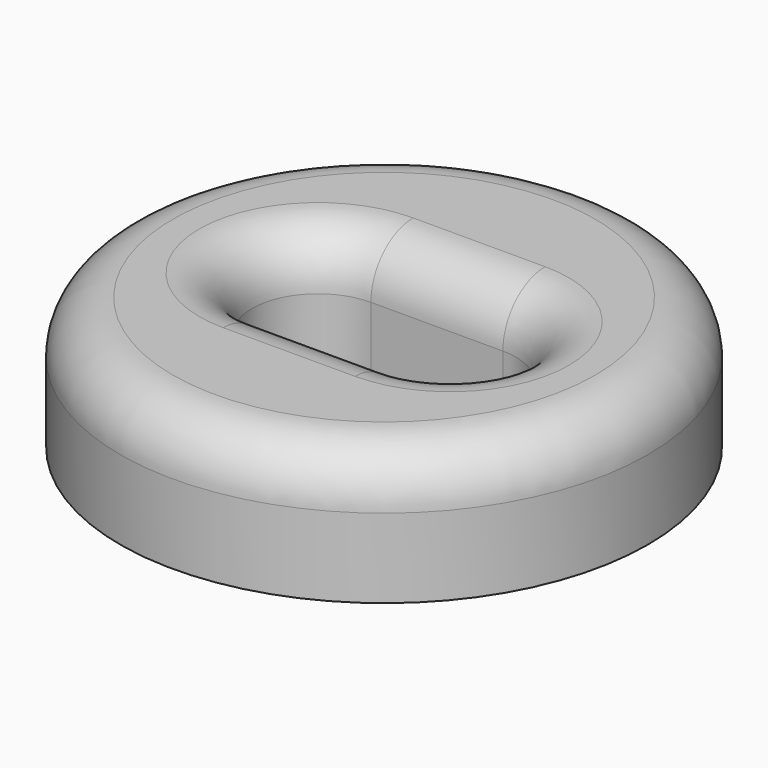
from build123d import *

# Parameters (mm, degrees)
SKETCH011_R     = 10
PAD005_DEPTH    = 5
FILLET_R        = 2
FILLET001_R     = 2
SKETCH012_R     = 0.75
POCKET006_DEPTH = 3.5


with BuildPart() as part:
    # Sketch011 (on Face1 of CopyPocket005) → Pad005 (new body)
    with BuildSketch(Plane.XY.offset(30)):
        with Locations((0.000374, 26)):
            Circle(SKETCH011_R)
        with BuildLine():
            ThreePointArc((-2.5, 28.5), (-5, 26), (-2.5, 23.5))
            Line((-2.5, 23.5), (2.5, 23.5))
            ThreePointArc((2.5, 23.5), (5, 26), (2.5, 28.5))
            Line((-2.5, 28.5), (2.5, 28.5))
        make_face(mode=Mode.SUBTRACT)
    extrude(amount=PAD005_DEPTH)

    # Fillet
    fillet_edges = [part.edges().sort_by_distance(p)[0] for p in [
        (-5, 26, 35),
    ]]
    fillet(fillet_edges, radius=FILLET_R)

    # Fillet001
    fillet001_edges = [part.edges().sort_by_distance(p)[0] for p in [
        (-9.999626, 26, 35),
    ]]
    fillet(fillet001_edges, radius=FILLET001_R)

    # Sketch012 (on Face12 of Fillet001) → Pocket006 (cut)
    with BuildSketch(Plane(origin=(0, 0, 30), x_dir=(1, 0, 0), z_dir=(0, 0, -1))):
        with Locations((-7.115, -26)):
            Circle(SKETCH012_R)
        with Locations((7.115, -26)):
            Circle(SKETCH012_R)
    extrude(amount=-POCKET006_DEPTH, mode=Mode.SUBTRACT)


solid = part.part
